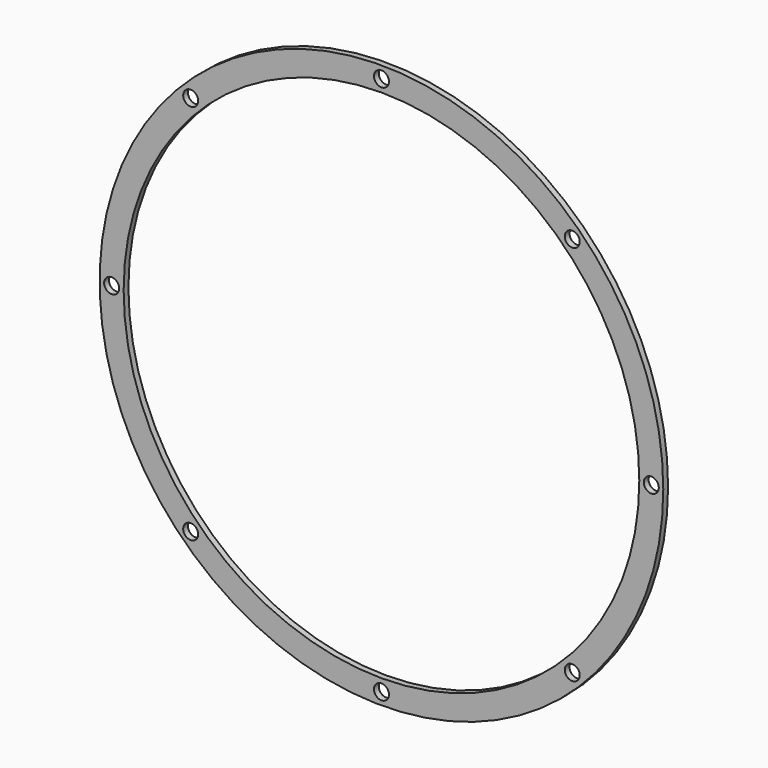
from build123d import *

# Parameters (mm, degrees)
SKETCH004_R        = 94
SKETCH004_R_2      = 86
PAD005_DEPTH       = 2
SKETCH005_R        = 2.5
POCKET001_DEPTH    = 5
POLARPATTERN_COUNT = 8


with BuildPart() as part:
    # Sketch004 (on ShapeBinder) → Pad005 (new body)
    with BuildSketch(Plane.XZ):
        Circle(SKETCH004_R)
        Circle(SKETCH004_R_2, mode=Mode.SUBTRACT)
    extrude(amount=PAD005_DEPTH)

    # Sketch005 (on Face4 of Pad005) → Pocket001 (cut)
    with BuildSketch(Plane.XZ.offset(2)):
        with Locations((90, 0)):
            Circle(SKETCH005_R)
    pocket001 = extrude(amount=-POCKET001_DEPTH, mode=Mode.SUBTRACT)

    # PolarPattern: Pocket001 ×8 about axis
    polarpattern_axis = Axis((0, -2, 0), (0, -1, 0))
    for i in range(1, POLARPATTERN_COUNT):
        add(pocket001.rotate(polarpattern_axis, i * 360 / POLARPATTERN_COUNT), mode=Mode.SUBTRACT)


solid = part.part
